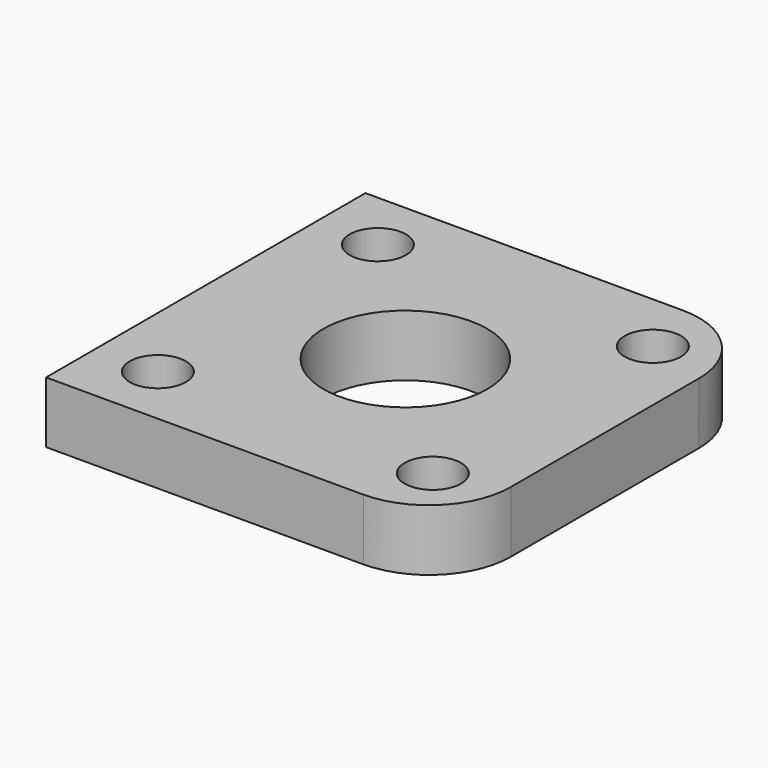
from build123d import *

# Parameters (mm, degrees)
F0_R     = 2.75
F0_R_2   = 8
F1_DEPTH = 6
F2_R     = 14
F2_R_2   = 12.5
F3_DEPTH = 2


with BuildPart() as f1:
    # F0 (on Top) → F1 (new body)
    with BuildSketch(Plane.XY):
        with BuildLine():
            Line((0, 19.5), (0, 0))
            Line((0, 0), (0, -19.5))
            Line((0, -19.5), (31, -19.5))
            ThreePointArc((31, -19.5), (36.656854, -17.156854), (39, -11.5))
            Line((39, -11.5), (39, 11.5))
            ThreePointArc((39, 11.5), (36.656854, 17.156854), (31, 19.5))
            Line((31, 19.5), (0, 19.5))
        make_face()
        with Locations((6.064971, -13.435029)):
            Circle(F0_R, mode=Mode.SUBTRACT)
        with Locations((32.935029, -13.435029)):
            Circle(F0_R, mode=Mode.SUBTRACT)
        with Locations((6.064971, 13.435029)):
            Circle(F0_R, mode=Mode.SUBTRACT)
        with Locations((19.5, 0)):
            Circle(F0_R_2, mode=Mode.SUBTRACT)
        with Locations((32.935029, 13.435029)):
            Circle(F0_R, mode=Mode.SUBTRACT)
    extrude(amount=-F1_DEPTH)

    # F2 (on face) → F3 (join)
    with BuildSketch(Plane(origin=(0, 0, -6), x_dir=(1, 0, 0), z_dir=(0, 0, -1))):
        with Locations((19.5, 0)):
            Circle(F2_R)
        with Locations((19.5, 0)):
            Circle(F2_R_2, mode=Mode.SUBTRACT)
    extrude(amount=F3_DEPTH)


solid = f1.part
